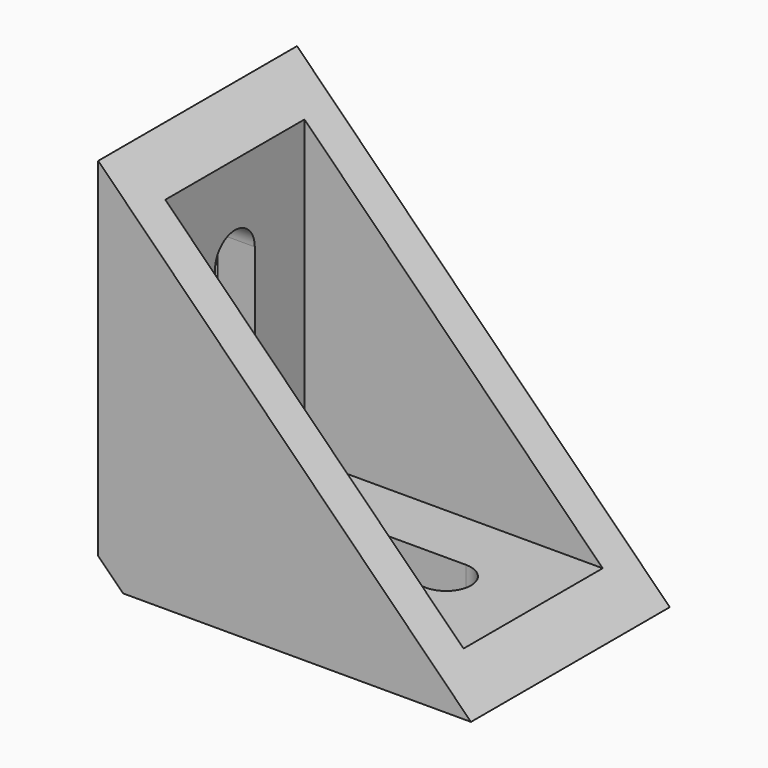
from build123d import *

# Parameters (mm, degrees)
F1_DEPTH  = 20
F3_DEPTH  = 17
F5_DEPTH  = 3
F6_SIZE   = 2
F8_DEPTH  = 25
F9_SIZE   = 2
F11_DEPTH = 25


with BuildPart() as f1:
    # F0 (on Front) → F1 (new body)
    with BuildSketch(Plane.XZ):
        Polygon((0, 30), (0, 0), (30, 0), align=None)
    extrude(amount=F1_DEPTH)

    # F2 (on Front) → F3 (cut)
    with BuildSketch(Plane.XZ):
        Polygon((29.658684, 3), (3, 28.884496), (3, 3), align=None)
    extrude(amount=F3_DEPTH, mode=Mode.SUBTRACT)

    # F4 (on face) → F5 (join)
    with BuildSketch(Plane(origin=(0, 0, 0), x_dir=(-1, 0, 0), z_dir=(0, 1, 0))):
        Polygon((-3, 3), (-3, 27), (-27, 3), align=None)
    extrude(amount=-F5_DEPTH)

    # F6
    f6_edges = [f1.edges().sort_by_distance(p)[0] for p in [
        (0, -10, 0),
    ]]
    chamfer(f6_edges, length=F6_SIZE)

    # F7 (on face) → F8 (cut)
    with BuildSketch(Plane.YZ.offset(3)):
        with BuildLine():
            ThreePointArc((-12, 20), (-10, 18), (-8, 20))
            ThreePointArc((-8, 20), (-10, 22), (-12, 20))
        make_face()
        with BuildLine():
            Line((-8, 13), (-8, 20))
            ThreePointArc((-8, 20), (-10, 18), (-12, 20))
            Line((-12, 20), (-12, 13))
            ThreePointArc((-12, 13), (-10, 15), (-8, 13))
        make_face()
        with BuildLine():
            ThreePointArc((-12, 13), (-10, 11), (-8, 13))
            ThreePointArc((-8, 13), (-10, 15), (-12, 13))
        make_face()
    extrude(amount=-F8_DEPTH, mode=Mode.SUBTRACT)

    # F9
    f9_edges = [f1.edges().sort_by_distance(p)[0] for p in [
        (3, -10, 3),
    ]]
    chamfer(f9_edges, length=F9_SIZE)

    # F10 (on face) → F11 (cut)
    with BuildSketch(Plane.XY.offset(3)):
        with BuildLine():
            ThreePointArc((20, -12), (21.414214, -11.414214), (22, -10))
            ThreePointArc((22, -10), (21.414214, -8.585786), (20, -8))
            ThreePointArc((20, -8), (18, -10), (20, -12))
        make_face()
        with BuildLine():
            ThreePointArc((20, -12), (18, -10), (20, -8))
            Line((20, -8), (13, -8))
            ThreePointArc((13, -8), (14.414214, -8.585786), (15, -10))
            ThreePointArc((15, -10), (14.414214, -11.414214), (13, -12))
            Line((13, -12), (20, -12))
        make_face()
        with BuildLine():
            ThreePointArc((15, -10), (14.414214, -8.585786), (13, -8))
            ThreePointArc((13, -8), (11, -10), (13, -12))
            ThreePointArc((13, -12), (14.414214, -11.414214), (15, -10))
        make_face()
    extrude(amount=-F11_DEPTH, mode=Mode.SUBTRACT)


solid = f1.part
